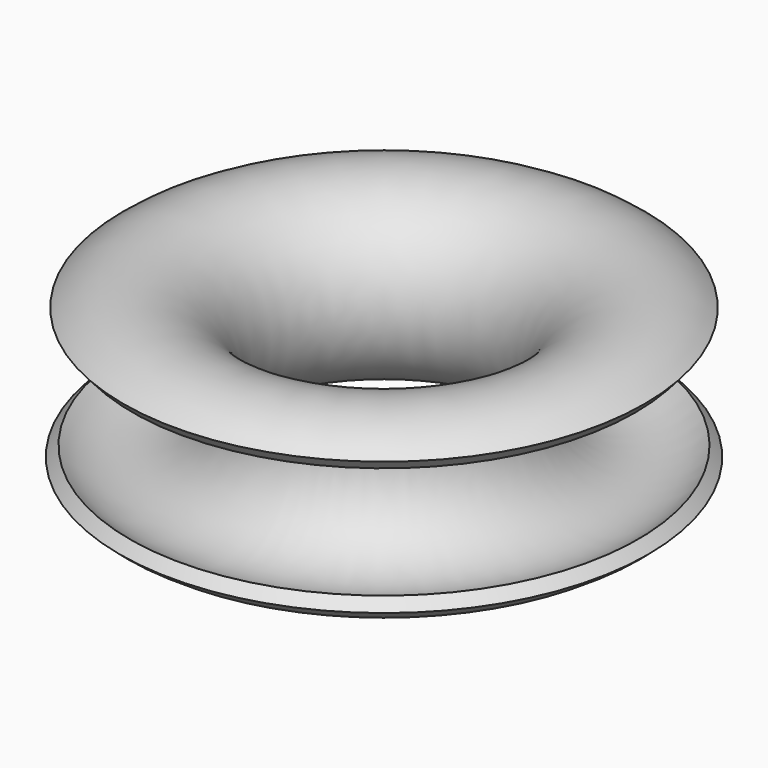
from build123d import *


with BuildPart() as f1:
    # F0 (on Front) → F1 (revolve)
    with BuildSketch(Plane.XZ):
        with BuildLine():
            Line((-59.536308, -12.632313), (-61.852839, -15.013793))
            ThreePointArc((-61.852839, -15.013793), (-26.310614, -0.552305), (-61.041006, 15.762852))
            Line((-61.041006, 15.762852), (-58.853247, 13.262556))
            ThreePointArc((-58.853247, 13.262556), (-29.631773, -0.464698), (-59.536308, -12.632313))
        make_face()
    revolve(axis=Axis((0, 0, 1.420297), (0, 0, -1)))


with BuildPart() as f3:
    # F2 (on Front) → F3 (revolve)
    with BuildSketch(Plane.XZ):
        with BuildLine():
            Line((-46.870012, 13.107468), (-46.870012, -16.385043))
            ThreePointArc((-46.870012, -16.385043), (-32.123757, -1.638787), (-46.870012, 13.107468))
        make_face()
    revolve(axis=Axis((-46.870012, 0, -1.638787), (0, 0, -1)))


solid = Compound([f1.part, f3.part])
